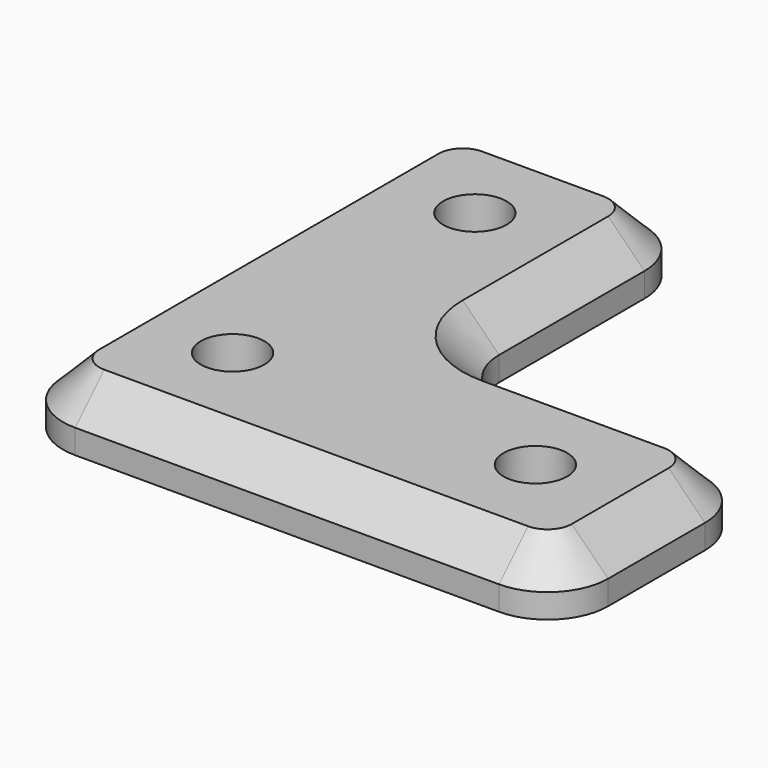
from build123d import *

# Parameters (mm, degrees)
F0_R     = 2.625
F1_DEPTH = 5
F2_SIZE  = 3


with BuildPart() as f1:
    # F0 (on Top) → F1 (new body)
    with BuildSketch(Plane.XY):
        with BuildLine():
            ThreePointArc((4.930798, 11.705586), (6.395264, 8.170052), (9.930798, 6.705586))
            Line((9.930798, 6.705586), (44.930798, 6.705586))
            ThreePointArc((44.930798, 6.705586), (48.466332, 8.170052), (49.930798, 11.705586))
            Line((49.930798, 11.705586), (49.930798, 21.705586))
            ThreePointArc((49.930798, 21.705586), (48.466332, 25.241119), (44.930798, 26.705586))
            Line((44.930798, 26.705586), (29.930798, 26.705586))
            ThreePointArc((29.930798, 26.705586), (26.395264, 28.170052), (24.930798, 31.705586))
            Line((24.930798, 31.705586), (24.930798, 46.705586))
            ThreePointArc((24.930798, 46.705586), (23.466332, 50.241119), (19.930798, 51.705586))
            Line((19.930798, 51.705586), (9.930798, 51.705586))
            ThreePointArc((9.930798, 51.705586), (6.395264, 50.241119), (4.930798, 46.705586))
            Line((4.930798, 46.705586), (4.930798, 26.705586))
            Line((4.930798, 26.705586), (4.930798, 11.705586))
        make_face()
        with Locations((14.930798, 16.705586)):
            Circle(F0_R, mode=Mode.SUBTRACT)
        with Locations((39.930798, 16.705586)):
            Circle(F0_R, mode=Mode.SUBTRACT)
        with Locations((14.930798, 41.705586)):
            Circle(F0_R, mode=Mode.SUBTRACT)
    extrude(amount=F1_DEPTH)

    # F2
    f2_edges = [f1.edges().sort_by_distance(p)[0] for p in [
        (14.930798, 51.705586, 5),
        (23.466332, 50.241119, 5),
        (24.930798, 39.205586, 5),
        (26.395264, 28.170052, 5),
        (37.430798, 26.705586, 5),
        (48.466332, 25.241119, 5),
        (49.930798, 16.705586, 5),
        (48.466332, 8.170052, 5),
        (27.430798, 6.705586, 5),
        (6.395264, 8.170052, 5),
        (4.930798, 29.205586, 5),
        (6.395264, 50.241119, 5),
    ]]
    chamfer(f2_edges, length=F2_SIZE)


solid = f1.part
